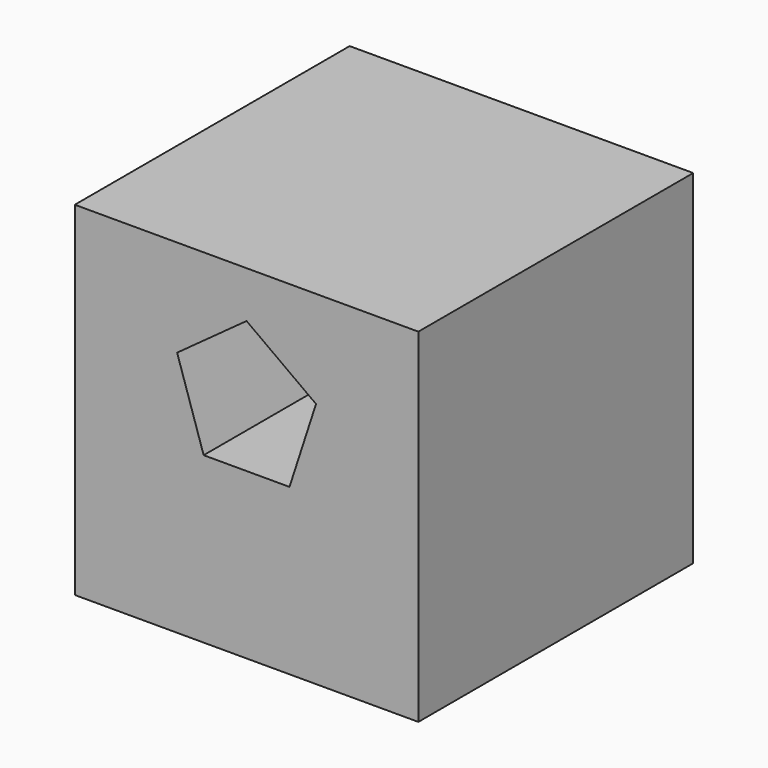
from build123d import *

# Parameters (mm, degrees)
F0_W     = 50.8
F0_H     = 50.8
F1_DEPTH = 50.8
F3_DEPTH = 25.4


with BuildPart() as f1:
    # F0 (on Right) → F1 (new body)
    with BuildSketch(Plane.YZ):
        with Locations((0.448795, 1.005484)):
            Rectangle(F0_W, F0_H)
    extrude(amount=F1_DEPTH)

    # F2 (on face) → F3 (cut)
    with BuildSketch(Plane.XZ.offset(24.951205)):
        Polygon((19.053298, 0), (31.746702, 0), (35.66918, 12.072145), (25.4, 19.533141), (15.13082, 12.072145), align=None)
    extrude(amount=-F3_DEPTH, mode=Mode.SUBTRACT)


solid = f1.part
